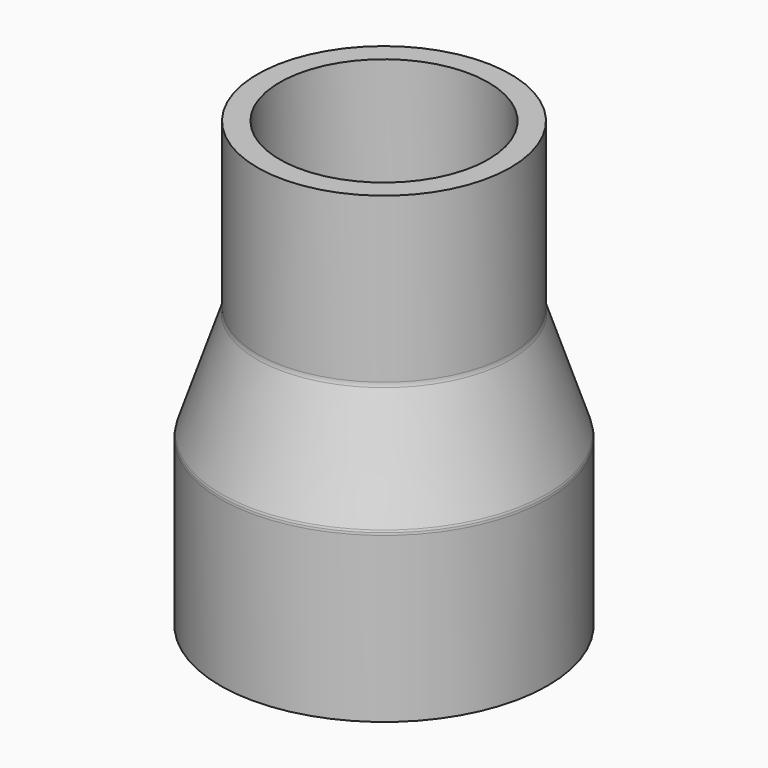
from build123d import *


with BuildPart() as f1:
    # F0 (on Front) → F1 (revolve)
    with BuildSketch(Plane.XZ):
        with BuildLine():
            Line((28.956, 50.8), (23.876, 50.8))
            Line((23.876, 50.8), (23.876, 13.217675))
            ThreePointArc((23.876, 13.217675), (23.88664, 12.957967), (23.918487, 12.7))
            ThreePointArc((23.918487, 12.7), (23.969673, 12.452136), (24.040439, 12.209137))
            Line((24.040439, 12.209137), (32.220561, -12.209137))
            ThreePointArc((32.220561, -12.209137), (32.343621, -12.706747), (32.385, -13.217675))
            Line((32.385, -13.217675), (32.385, -50.8))
            Line((32.385, -50.8), (37.465, -50.8))
            Line((37.465, -50.8), (37.465, -13.217675))
            ThreePointArc((37.465, -13.217675), (37.45436, -12.957967), (37.422513, -12.7))
            ThreePointArc((37.422513, -12.7), (37.371327, -12.452136), (37.300561, -12.209137))
            Line((37.300561, -12.209137), (29.120439, 12.209137))
            ThreePointArc((29.120439, 12.209137), (28.997379, 12.706747), (28.956, 13.217675))
            Line((28.956, 13.217675), (28.956, 50.8))
        make_face()
    revolve(axis=Axis((0, 0, 0), (0, 0, -1)))


solid = f1.part
